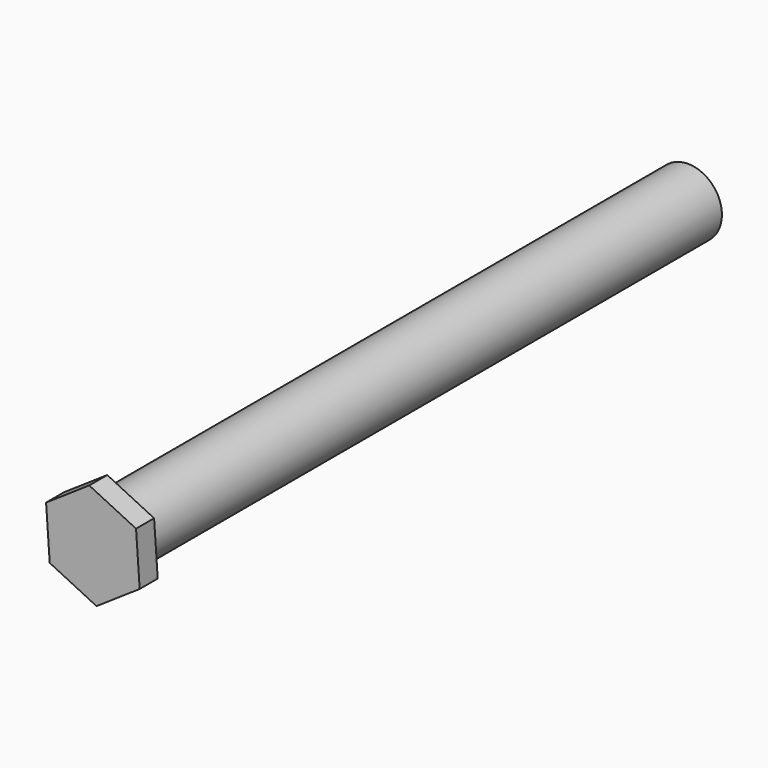
from build123d import *

# Parameters (mm, degrees)
F0_R     = 4.7625
F1_DEPTH = 101.6
F3_DEPTH = 3.175


with BuildPart() as f1:
    # F0 (on Front) → F1 (new body)
    with BuildSketch(Plane.XZ):
        Circle(F0_R)
    extrude(amount=F1_DEPTH)

    # F2 (on face) → F3 (join)
    with BuildSketch(Plane.XZ.offset(101.6)):
        Polygon((0.511932, -7.314456), (6.59047, -3.213882), (6.078538, 4.100574), (-0.511932, 7.314456), (-6.59047, 3.213882), (-6.078538, -4.100574), align=None)
    extrude(amount=F3_DEPTH)


solid = f1.part
